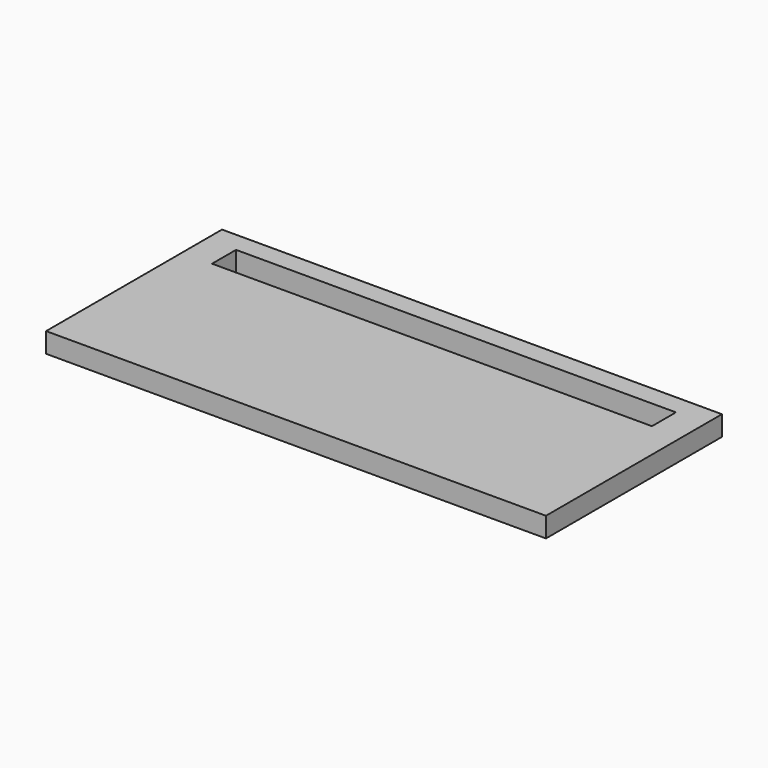
from build123d import *

# Parameters (mm, degrees)
BOX163_W     = 22
BOX163_H     = 1.5
BOX163_DEPTH = 2
BOX161_W     = 25
BOX161_H     = 11
BOX161_DEPTH = 1


with BuildPart() as longledhole015:
    # Box163 → Box163 (new body)
    with BuildSketch(Plane(origin=(1.5, 8.5, 0), x_dir=(1, 0, 0), z_dir=(0, 0, 1))):
        with Locations((11, 0.75)):
            Rectangle(BOX163_W, BOX163_H)
    extrude(amount=BOX163_DEPTH)


with BuildPart() as cut032:
    # Box161 → Box161 (new body)
    with BuildSketch(Plane.XY):
        with Locations((12.5, 5.5)):
            Rectangle(BOX161_W, BOX161_H)
    extrude(amount=BOX161_DEPTH)

    # Cut032: cut LongLedHole015
    add(longledhole015.part, mode=Mode.SUBTRACT)


solid = cut032.part
